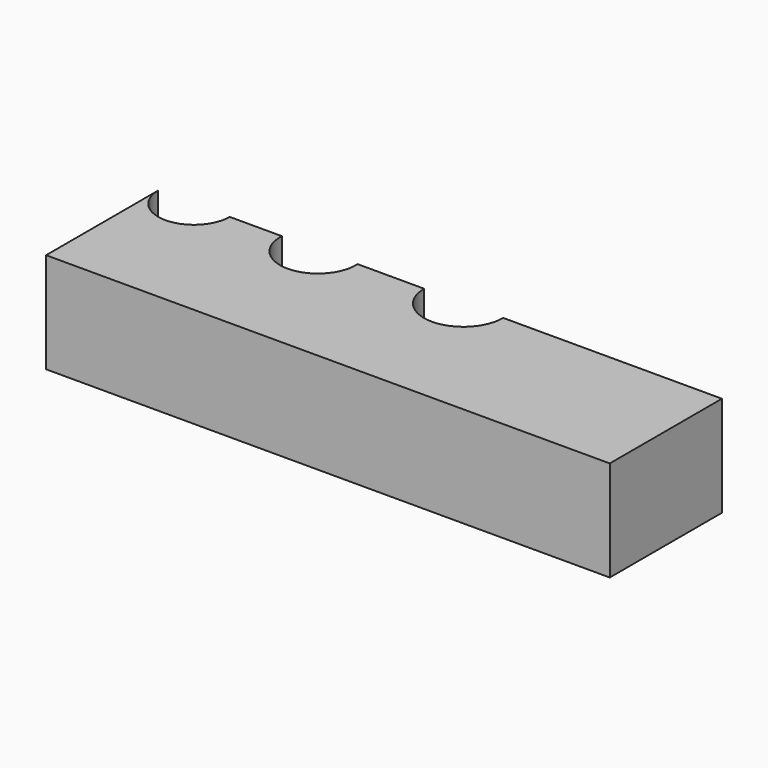
from build123d import *

# Parameters (mm, degrees)
F0_W     = 85.3
F0_H     = 15.2
F1_DEPTH = 15
F3_DEPTH = 15.2


with BuildPart() as f1:
    # F0 (on Front) → F1 (new body)
    with BuildSketch(Plane.XZ):
        with Locations((-42.65, 7.6)):
            Rectangle(F0_W, F0_H)
    extrude(amount=F1_DEPTH)

    # F2 (on Top) → F3 (join)
    with BuildSketch(Plane.XY):
        with BuildLine():
            Line((-85.3, 6.212852), (-85.3, 0))
            Line((-85.3, 0), (0, 0))
            Line((0, 0), (0, 6.212852))
            Line((0, 6.212852), (-33.102989, 6.212852))
            ThreePointArc((-33.102989, 6.212852), (-39.074818, 0.191442), (-45.046646, 6.212852))
            Line((-45.046646, 6.212852), (-55.139881, 6.212852))
            ThreePointArc((-55.139881, 6.212852), (-60.859377, 0.135213), (-66.578873, 6.212852))
            Line((-66.578873, 6.212852), (-74.485242, 6.212852))
            ThreePointArc((-74.485242, 6.212852), (-79.892621, 0.805473), (-85.3, 6.212852))
        make_face()
    extrude(amount=F3_DEPTH)


solid = f1.part
